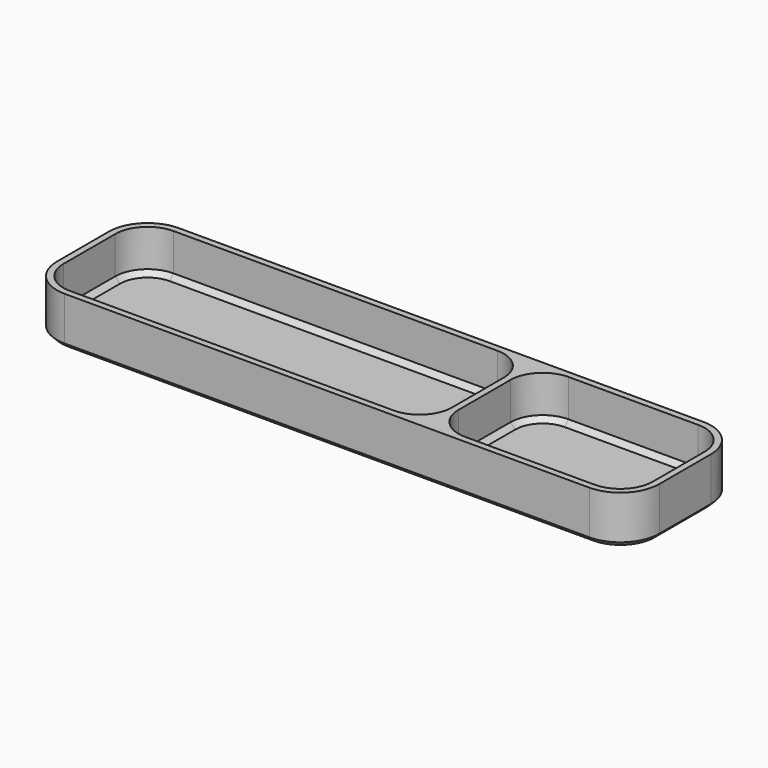
from build123d import *

# Parameters (mm, degrees)
F0_W     = 186
F0_H     = 44
F1_DEPTH = 15
F2_W     = 186
F2_H     = 44
F3_DEPTH = 2
F4_R     = 12
F5_SIZE  = 1.5


with BuildPart() as f1:
    # F0 (on Top) → F1 (new body)
    with BuildSketch(Plane.XY):
        with Locations((91, 20)):
            Rectangle(F0_W, F0_H)
        with BuildLine():
            ThreePointArc((122, 30), (124.9289321881, 37.0710678119), (132, 40))
            Line((132, 40), (172, 40))
            ThreePointArc((172, 40), (179.0710678119, 37.0710678119), (182, 30))
            Line((182, 30), (182, 10))
            ThreePointArc((182, 10), (179.0710678119, 2.9289321881), (172, 0))
            Line((172, 0), (132, 0))
            ThreePointArc((132, 0), (124.9289321881, 2.9289321881), (122, 10))
            Line((122, 10), (122, 30))
        make_face(mode=Mode.SUBTRACT)
        with BuildLine():
            Line((110, 0), (10, 0))
            ThreePointArc((10, 0), (2.9289321881, 2.9289321881), (0, 10))
            Line((0, 10), (0, 30))
            ThreePointArc((0, 30), (2.9289321881, 37.0710678119), (10, 40))
            Line((10, 40), (110, 40))
            ThreePointArc((110, 40), (117.0710678119, 37.0710678119), (120, 30))
            Line((120, 30), (120, 10))
            ThreePointArc((120, 10), (117.0710678119, 2.9289321881), (110, 0))
        make_face(mode=Mode.SUBTRACT)
    extrude(amount=F1_DEPTH)

    # F2 (on face) → F3 (join)
    with BuildSketch(Plane(origin=(0, 0, 0), x_dir=(1, 0, 0), z_dir=(0, 0, -1))):
        with Locations((91, -20)):
            Rectangle(F2_W, F2_H)
    extrude(amount=-F3_DEPTH)

    # F4
    f4_edges = [f1.edges().sort_by_distance(p)[0] for p in [
        (-2, -2, 7.5),
        (-2, 42, 7.5),
        (184, -2, 7.5),
        (184, 42, 7.5),
    ]]
    fillet(f4_edges, radius=F4_R)

    # F5
    f5_edges = [f1.edges().sort_by_distance(p)[0] for p in [
        (60, 0, 2),
        (117.071068, 2.928932, 2),
        (120, 20, 2),
        (117.071068, 37.071068, 2),
        (60, 40, 2),
        (2.928932, 37.071068, 2),
        (0, 20, 2),
        (2.928932, 2.928932, 2),
        (152, 0, 2),
        (179.071068, 2.928932, 2),
        (182, 20, 2),
        (179.071068, 37.071068, 2),
        (152, 40, 2),
        (124.928932, 37.071068, 2),
        (122, 20, 2),
        (124.928932, 2.928932, 2),
        (180.485281, 1.514719, 0),
    ]]
    chamfer(f5_edges, length=F5_SIZE)


solid = f1.part
